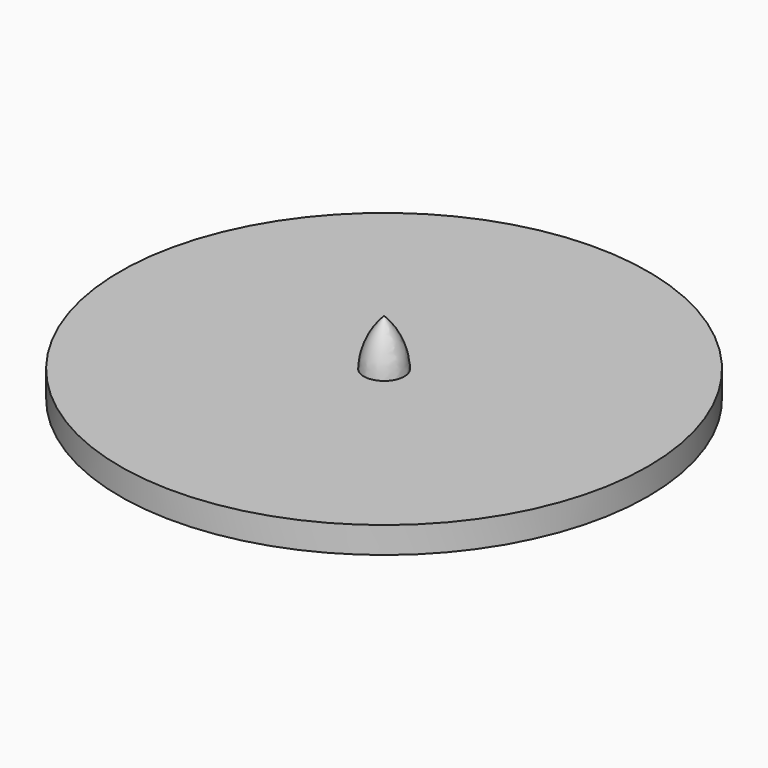
from build123d import *

# Parameters (mm, degrees)
SKETCH_R  = 65
PAD_DEPTH = 6.5


with BuildPart() as revolution:
    # Sketch001 → Revolution (revolve)
    with BuildSketch(Plane.XZ):
        with BuildLine():
            Line((0, 18), (0, 6))
            Line((0, 6), (5, 6))
            ThreePointArc((5, 6), (3.7, 12.5), (0, 18))
        make_face()
    revolve(axis=Axis((0, 0, 0), (0, 0, 1)))


with BuildPart() as fusion:
    # Sketch → Pad (new body)
    with BuildSketch(Plane.XY):
        Circle(SKETCH_R)
    extrude(amount=PAD_DEPTH)

    # Fusion: union Revolution
    add(revolution.part)


solid = fusion.part
